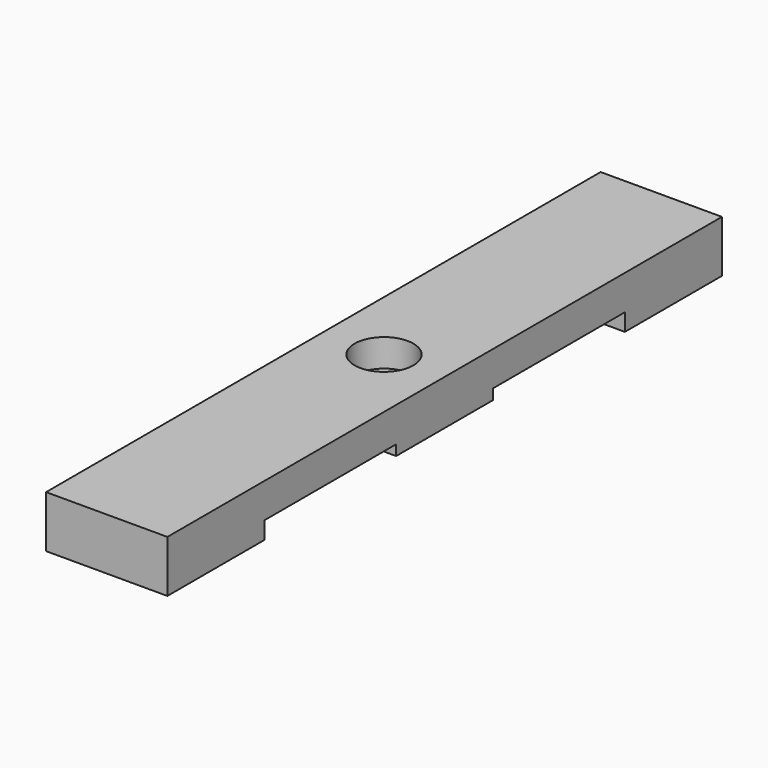
from build123d import *

# Parameters (mm, degrees)
F0_W     = 88.9
F0_H     = 25.4
F1_DEPTH = 508
F3_DEPTH = 12.7
F4_W     = 44.45
F4_H     = 44.45
F5_DEPTH = 4.445
F6_DEPTH = 7.62
F8_R     = 21.5773
F9_DEPTH = 20.32


with BuildPart() as f1:
    # F0 (on Front) → F1 (new body)
    with BuildSketch(Plane.XZ):
        with Locations((-4.590311, -8.587727)):
            Rectangle(F0_W, F0_H)
    extrude(amount=F1_DEPTH)

    # F2 (on face) → F3 (join)
    with BuildSketch(Plane(origin=(0, 0, -21.287727), x_dir=(1, 0, 0), z_dir=(0, 0, -1))):
        Polygon((-4.590311, 88.9), (-49.040311, 88.9), (-49.040311, 0), (39.859689, 0), (39.859689, 88.9), align=None)
        Polygon((-49.040311, 508), (-49.040311, 419.1), (-4.590311, 419.1), (39.859689, 419.1), (39.859689, 508), align=None)
    extrude(amount=F3_DEPTH)

    # F4 (on face) → F5 (join)
    with BuildSketch(Plane(origin=(0, 0, -21.287727), x_dir=(1, 0, 0), z_dir=(0, 0, -1))):
        with Locations((17.634689, 231.775)):
            Rectangle(F4_W, F4_H)
        Polygon((-49.040311, 209.55), (-4.590311, 209.55), (-4.590311, 254), (-4.590311, 298.45), (-49.040311, 298.45), align=None)
        with Locations((17.634689, 276.225)):
            Rectangle(F4_W, F4_H)
    extrude(amount=F5_DEPTH)

    # F4 (on face) → F6 (join)
    with BuildSketch(Plane(origin=(0, 0, -21.287727), x_dir=(1, 0, 0), z_dir=(0, 0, -1))):
        with Locations((17.634689, 231.775)):
            Rectangle(F4_W, F4_H)
        Polygon((-49.040311, 209.55), (-4.590311, 209.55), (-4.590311, 254), (-4.590311, 298.45), (-49.040311, 298.45), align=None)
        with Locations((17.634689, 276.225)):
            Rectangle(F4_W, F4_H)
    extrude(amount=F6_DEPTH)

    # F8 (on face) → F9 (cut)
    with BuildSketch(Plane.XY.offset(4.112273)):
        with Locations((-4.588948, -254.004985)):
            Circle(F8_R)
    extrude(amount=-F9_DEPTH, mode=Mode.SUBTRACT)


solid = f1.part
